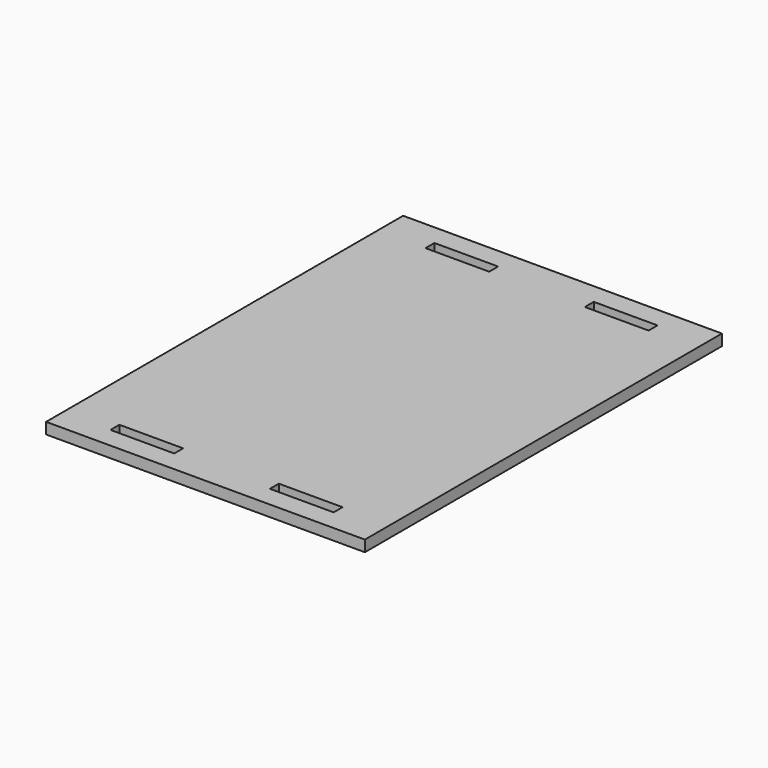
from build123d import *

# Parameters (mm, degrees)
F0_W     = 508
F0_H     = 355.6
F1_DEPTH = 17.78


with BuildPart() as f1:
    # F0 (on Top) → F1 (new body)
    with BuildSketch(Plane.XY):
        with Locations((254, 177.8)):
            Rectangle(F0_W, F0_H)
        Polygon((177.8, 50.8), (177.8, 33.02), (76.2, 33.02), (76.2, 50.8), (127, 50.8), align=None, mode=Mode.SUBTRACT)
        Polygon((330.2, 33.02), (330.2, 50.8), (381, 50.8), (431.8, 50.8), (431.8, 33.02), align=None, mode=Mode.SUBTRACT)
        Polygon((0, 660.4), (0, 355.6), (508, 355.6), (508, 711.2), (254, 711.2), (0, 711.2), align=None)
        Polygon((177.8, 660.4), (127, 660.4), (76.2, 660.4), (76.2, 678.18), (177.8, 678.18), align=None, mode=Mode.SUBTRACT)
        Polygon((431.8, 660.4), (381, 660.4), (330.2, 660.4), (330.2, 678.18), (431.8, 678.18), align=None, mode=Mode.SUBTRACT)
    extrude(amount=F1_DEPTH)


solid = f1.part
